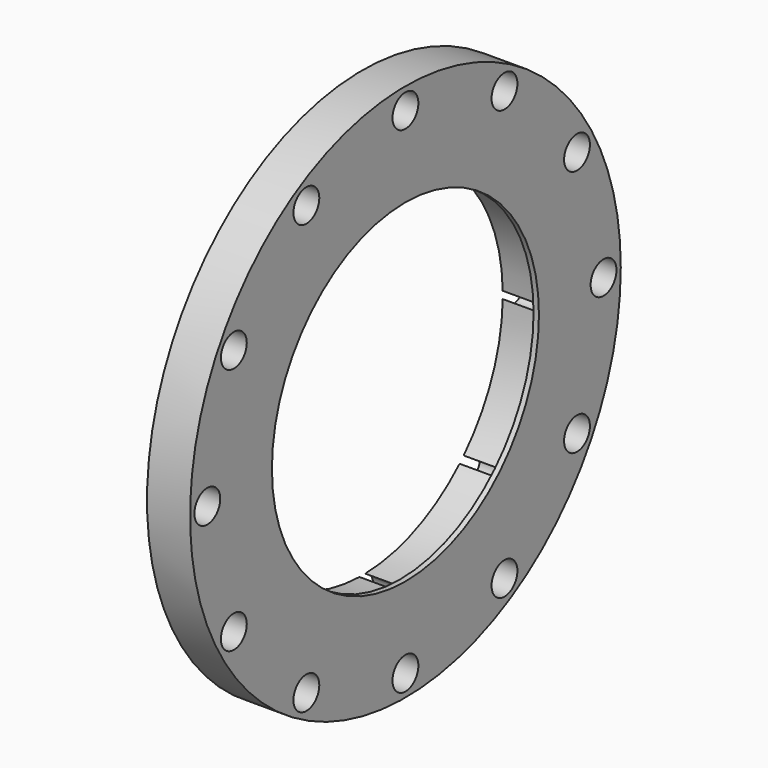
from build123d import *

# Parameters (mm, degrees)
SKETCH014_R     = 50
SKETCH014_R_2   = 31
SKETCH014_R_3   = 1.7
PAD014_DEPTH    = 8
SKETCH015_R     = 32.6
POCKET_DEPTH    = 7
SKETCH016_R     = 2.5
POCKET001_DEPTH = 7
SKETCH017_R     = 3
POCKET002_DEPTH = 4


with BuildPart() as part:
    # Sketch014 → Pad014 (new body)
    with BuildSketch(Plane.YZ):
        Circle(SKETCH014_R)
        Circle(SKETCH014_R_2, mode=Mode.SUBTRACT)
        with Locations((46, 0)):
            Circle(SKETCH014_R_3, mode=Mode.SUBTRACT)
        with Locations((-46, 0)):
            Circle(SKETCH014_R_3, mode=Mode.SUBTRACT)
        with Locations((0, -46)):
            Circle(SKETCH014_R_3, mode=Mode.SUBTRACT)
        with Locations((0, 46)):
            Circle(SKETCH014_R_3, mode=Mode.SUBTRACT)
        with Locations((-39.837169, 23)):
            Circle(SKETCH014_R_3, mode=Mode.SUBTRACT)
        with Locations((-23, 39.837169)):
            Circle(SKETCH014_R_3, mode=Mode.SUBTRACT)
        with Locations((39.837169, 23)):
            Circle(SKETCH014_R_3, mode=Mode.SUBTRACT)
        with Locations((39.837169, -23)):
            Circle(SKETCH014_R_3, mode=Mode.SUBTRACT)
        with Locations((23, -39.837169)):
            Circle(SKETCH014_R_3, mode=Mode.SUBTRACT)
        with Locations((23, 39.837169)):
            Circle(SKETCH014_R_3, mode=Mode.SUBTRACT)
        with Locations((-23, -39.837169)):
            Circle(SKETCH014_R_3, mode=Mode.SUBTRACT)
        with Locations((-39.837169, -23)):
            Circle(SKETCH014_R_3, mode=Mode.SUBTRACT)
    extrude(amount=PAD014_DEPTH)

    # Sketch015 (on DatumPlane) → Pocket (cut)
    with BuildSketch(Plane(origin=(0, 0, 0), x_dir=(0, 1, 0), z_dir=(-1, 0, 0))):
        Circle(SKETCH015_R)
    extrude(amount=-POCKET_DEPTH, mode=Mode.SUBTRACT)

    # Sketch016 (on DatumPlane) → Pocket001 (cut)
    with BuildSketch(Plane(origin=(0, 0, 0), x_dir=(0, 1, 0), z_dir=(-1, 0, 0))):
        with Locations((0, 35)):
            Circle(SKETCH016_R)
        with Locations((-35, 0)):
            Circle(SKETCH016_R)
        with Locations((0, -35)):
            Circle(SKETCH016_R)
        with Locations((35, 0)):
            Circle(SKETCH016_R)
        with Locations((24.748737, -24.748737)):
            Circle(SKETCH016_R)
        with Locations((-24.748737, -24.748737)):
            Circle(SKETCH016_R)
        with Locations((-24.748737, 24.748737)):
            Circle(SKETCH016_R)
        with Locations((24.748737, 24.748737)):
            Circle(SKETCH016_R)
    extrude(amount=-POCKET001_DEPTH, mode=Mode.SUBTRACT)

    # Sketch017 (on DatumPlane) → Pocket002 (cut)
    with BuildSketch(Plane.YZ.offset(8)):
        with Locations((-46, 0)):
            Circle(SKETCH017_R)
        with Locations((46, 0)):
            Circle(SKETCH017_R)
        with Locations((0, -46)):
            Circle(SKETCH017_R)
        with Locations((0, 46)):
            Circle(SKETCH017_R)
        with Locations((-39.837169, -23)):
            Circle(SKETCH017_R)
        with Locations((-23, -39.837169)):
            Circle(SKETCH017_R)
        with Locations((23, -39.837169)):
            Circle(SKETCH017_R)
        with Locations((39.837169, -23)):
            Circle(SKETCH017_R)
        with Locations((39.837169, 23)):
            Circle(SKETCH017_R)
        with Locations((23, 39.837169)):
            Circle(SKETCH017_R)
        with Locations((-23, 39.837169)):
            Circle(SKETCH017_R)
        with Locations((-39.837169, 23)):
            Circle(SKETCH017_R)
    extrude(amount=-POCKET002_DEPTH, mode=Mode.SUBTRACT)


solid = part.part
